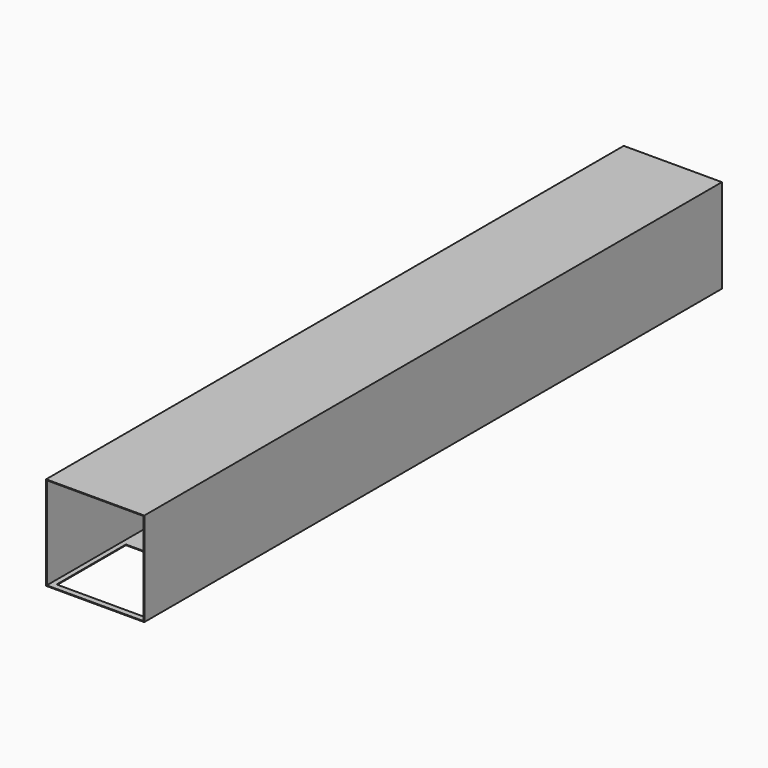
from build123d import *

# Parameters (mm, degrees)
F1_DEPTH = 5000
F3_DEPTH = 25


with BuildPart() as f1:
    # F0 (on Front) → F1 (new body)
    with BuildSketch(Plane.XZ):
        Polygon((340, -310), (340, 0), (340, 340), (-340, 340), (-340, 0), (-340, -310), align=None)
        Polygon((335, 335), (335, 0), (335, -305), (-335, -305), (-335, 0), (-335, 335), align=None, mode=Mode.SUBTRACT)
    extrude(amount=F1_DEPTH)

    # F2 (on face) → F3 (cut)
    with BuildSketch(Plane(origin=(0, 0, -310), x_dir=(1, 0, 0), z_dir=(0, 0, -1))):
        Polygon((-300, 4358.634683), (0, 4358.634683), (300, 4358.634683), (300, 4958.634683), (0, 4958.634683), (-300, 4958.634683), align=None)
        Polygon((300, 702.200197), (0, 702.200197), (-300, 702.200197), (-300, 102.200197), (0, 102.200197), (300, 102.200197), align=None)
    extrude(amount=-F3_DEPTH, mode=Mode.SUBTRACT)


solid = f1.part
